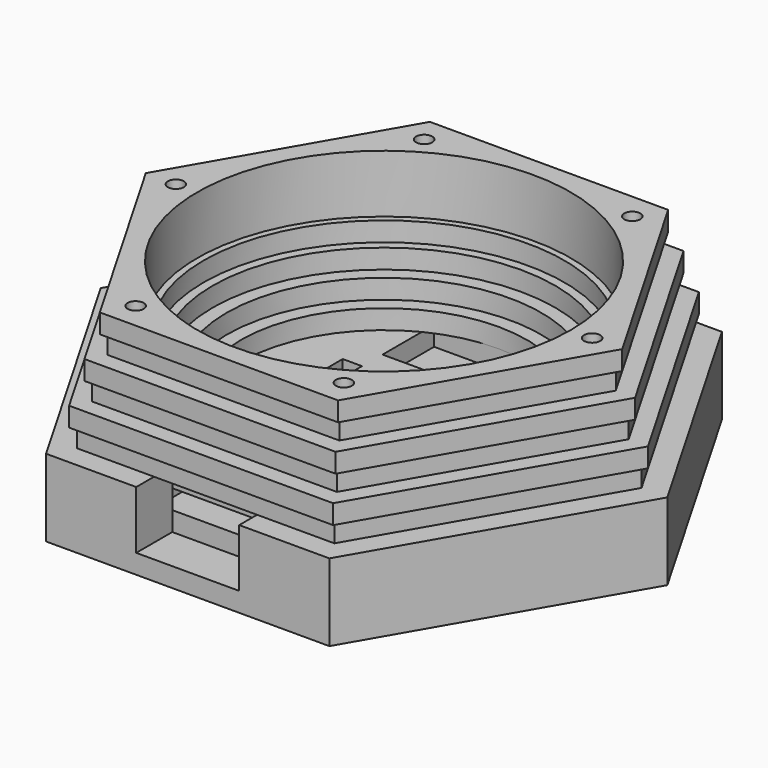
from build123d import *

# Parameters (mm, degrees)
PAD_DEPTH          = 9
SKETCH001_W        = 26.1
SKETCH001_H        = 34.4
POCKET_DEPTH       = 3
SKETCH002_R        = 22.22
PAD001_DEPTH       = 3
SKETCH003_R        = 24.44
PAD002_DEPTH       = 3
SKETCH004_R        = 26.6
PAD003_DEPTH       = 3
SKETCH005_R        = 28
PAD004_DEPTH       = 3
SKETCH006_R        = 29
PAD005_DEPTH       = 3
SKETCH007_R        = 29
PAD006_DEPTH       = 3
SKETCH008_R        = 29
PAD007_DEPTH       = 3
SKETCH009_W        = 17
SKETCH009_H        = 24
POCKET001_DEPTH    = 3
SKETCH010_W        = 16
SKETCH010_H        = 9
POCKET002_DEPTH    = 7
SKETCH011_W        = 20
SKETCH011_H        = 10
POCKET003_DEPTH    = 3
SKETCH012_R        = 1.25
POCKET004_DEPTH    = 270.433943
POLARPATTERN_COUNT = 6
SKETCH013_W        = 3
SKETCH013_H        = 38
POCKET005_DEPTH    = 3
SKETCH014_W        = 3
SKETCH014_H        = 5
POCKET006_DEPTH    = 6


with BuildPart() as part:
    # Sketch → Pad (new body)
    with BuildSketch(Plane.XY):
        Polygon((44, 0), (22, 38.105118), (-22, 38.105118), (-44, 0), (-22, -38.105118), (22, -38.105118), align=None)
    extrude(amount=PAD_DEPTH)

    # Sketch001 (on Face8 of Pad) → Pocket (cut)
    with BuildSketch(Plane.XY.offset(9)):
        with Locations((0, -13.905118)):
            Rectangle(SKETCH001_W, SKETCH001_H)
    extrude(amount=-POCKET_DEPTH, mode=Mode.SUBTRACT)

    # Sketch002 (on Face5 of Pocket) → Pad001 (join)
    with BuildSketch(Plane.XY.offset(9)):
        Polygon((22, 38.105118), (-22, 38.105118), (-44, 0), (-22, -38.105118), (22, -38.105118), (44, 0), align=None)
        Circle(SKETCH002_R, mode=Mode.SUBTRACT)
    extrude(amount=PAD001_DEPTH)

    # Sketch003 (on Face14 of Pad001) → Pad002 (join)
    with BuildSketch(Plane.XY.offset(12)):
        Polygon((40, 0), (20, 34.641016), (-20, 34.641016), (-40, 0), (-20, -34.641016), (20, -34.641016), align=None)
        Circle(SKETCH003_R, mode=Mode.SUBTRACT)
    extrude(amount=PAD002_DEPTH)

    # Sketch004 (on Face21 of Pad002) → Pad003 (join)
    with BuildSketch(Plane.XY.offset(15)):
        Polygon((41, 0), (20.5, 35.507042), (-20.5, 35.507042), (-41, 0), (-20.5, -35.507042), (20.5, -35.507042), align=None)
        Circle(SKETCH004_R, mode=Mode.SUBTRACT)
    extrude(amount=PAD003_DEPTH)

    # Sketch005 (on Face28 of Pad003) → Pad004 (join)
    with BuildSketch(Plane.XY.offset(18)):
        Polygon((19, 32.908965), (-19, 32.908965), (-38, 0), (-19, -32.908965), (19, -32.908965), (38, 0), align=None)
        Circle(SKETCH005_R, mode=Mode.SUBTRACT)
    extrude(amount=PAD004_DEPTH)

    # Sketch006 (on Face35 of Pad004) → Pad005 (join)
    with BuildSketch(Plane.XY.offset(21)):
        Polygon((39, 0), (19.5, 33.774991), (-19.5, 33.774991), (-39, 0), (-19.5, -33.774991), (19.5, -33.774991), align=None)
        Circle(SKETCH006_R, mode=Mode.SUBTRACT)
    extrude(amount=PAD005_DEPTH)

    # Sketch007 (on Face42 of Pad005) → Pad006 (join)
    with BuildSketch(Plane.XY.offset(24)):
        Polygon((36, 0), (18, 31.176915), (-18, 31.176915), (-36, 0), (-18, -31.176915), (18, -31.176915), align=None)
        Circle(SKETCH007_R, mode=Mode.SUBTRACT)
    extrude(amount=PAD006_DEPTH)

    # Sketch008 (on Face49 of Pad006) → Pad007 (join)
    with BuildSketch(Plane.XY.offset(27)):
        Polygon((37, 0), (18.5, 32.04294), (-18.5, 32.04294), (-37, 0), (-18.5, -32.04294), (18.5, -32.04294), align=None)
        Circle(SKETCH008_R, mode=Mode.SUBTRACT)
    extrude(amount=PAD007_DEPTH)

    # Sketch009 (on Face74 of Pad007) → Pocket001 (cut)
    with BuildSketch(Plane.XY.offset(6)):
        with Locations((0, -8.705118)):
            Rectangle(SKETCH009_W, SKETCH009_H)
    extrude(amount=-POCKET001_DEPTH, mode=Mode.SUBTRACT)

    # Sketch010 (on Face12 of Pocket001) → Pocket002 (cut)
    with BuildSketch(Plane.XZ.offset(38.105118)):
        with Locations((0, 7.5)):
            Rectangle(SKETCH010_W, SKETCH010_H)
    extrude(amount=-POCKET002_DEPTH, mode=Mode.SUBTRACT)

    # Sketch011 (on Face40 of Pocket002) → Pocket003 (cut)
    with BuildSketch(Plane.XY.offset(9)):
        with Locations((0, 17.22)):
            Rectangle(SKETCH011_W, SKETCH011_H)
    extrude(amount=-POCKET003_DEPTH, mode=Mode.SUBTRACT)

    # Sketch012 (on Face93 of Pocket003) → Pocket004 (cut, through all)
    with BuildSketch(Plane.XY.offset(30)):
        with Locations((-32.33, 0)):
            Circle(SKETCH012_R)
    pocket004 = extrude(amount=-POCKET004_DEPTH, mode=Mode.SUBTRACT)

    # PolarPattern: Pocket004 ×6 about axis
    polarpattern_axis = Axis((0, 0, 30), (0, 0, 1))
    for i in range(1, POLARPATTERN_COUNT):
        add(pocket004.rotate(polarpattern_axis, i * 360 / POLARPATTERN_COUNT), mode=Mode.SUBTRACT)

    # Sketch013 (on Face45 of PolarPattern) → Pocket005 (cut)
    with BuildSketch(Plane.XY.offset(6)):
        with Locations((-11.55, -12.105118)):
            Rectangle(SKETCH013_W, SKETCH013_H)
    extrude(amount=-POCKET005_DEPTH, mode=Mode.SUBTRACT)

    # Sketch014 (on Face58 of Pocket005) → Pocket006 (cut)
    with BuildSketch(Plane.XY.offset(9)):
        with Locations((-11.55, 5.794882)):
            Rectangle(SKETCH014_W, SKETCH014_H)
    extrude(amount=-POCKET006_DEPTH, mode=Mode.SUBTRACT)


solid = part.part
